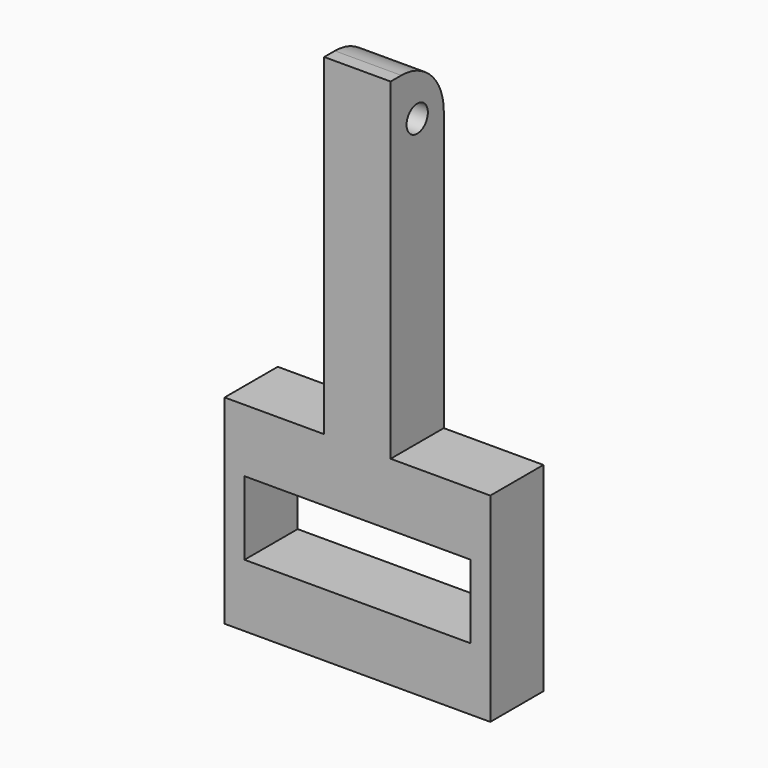
from build123d import *

# Parameters (mm, degrees)
F0_W     = 6.35
F0_H     = 31.75
F1_DEPTH = 3.175
F2_R     = 5.08
F3_R     = 1.27
F4_DEPTH = 53.34
F5_W     = 21.59
F5_H     = 7.036624
F6_DEPTH = 25.4


with BuildPart() as f1:
    # F0 (on Front) → F1 (new body, symmetric)
    with BuildSketch(Plane.XZ):
        with Locations((0, 25.4)):
            Rectangle(F0_W, F0_H)
        Polygon((3.175, 9.525), (-3.175, 9.525), (-12.7, 9.525), (-12.7, -9.525), (12.7, -9.525), (12.7, 9.525), align=None)
    extrude(amount=F1_DEPTH, both=True)

    # F2
    f2_edges = [f1.edges().sort_by_distance(p)[0] for p in [
        (0, 3.175, 41.275),
    ]]
    fillet(f2_edges, radius=F2_R)

    # F3 (on face) → F4 (cut)
    with BuildSketch(Plane.YZ.offset(3.175)):
        with Locations((0, 36.86247)):
            Circle(F3_R)
    extrude(amount=-F4_DEPTH, mode=Mode.SUBTRACT)

    # F5 (on face) → F6 (cut, symmetric)
    with BuildSketch(Plane.XZ.offset(3.175)):
        Rectangle(F5_W, F5_H)
    extrude(amount=F6_DEPTH, both=True, mode=Mode.SUBTRACT)


solid = f1.part
